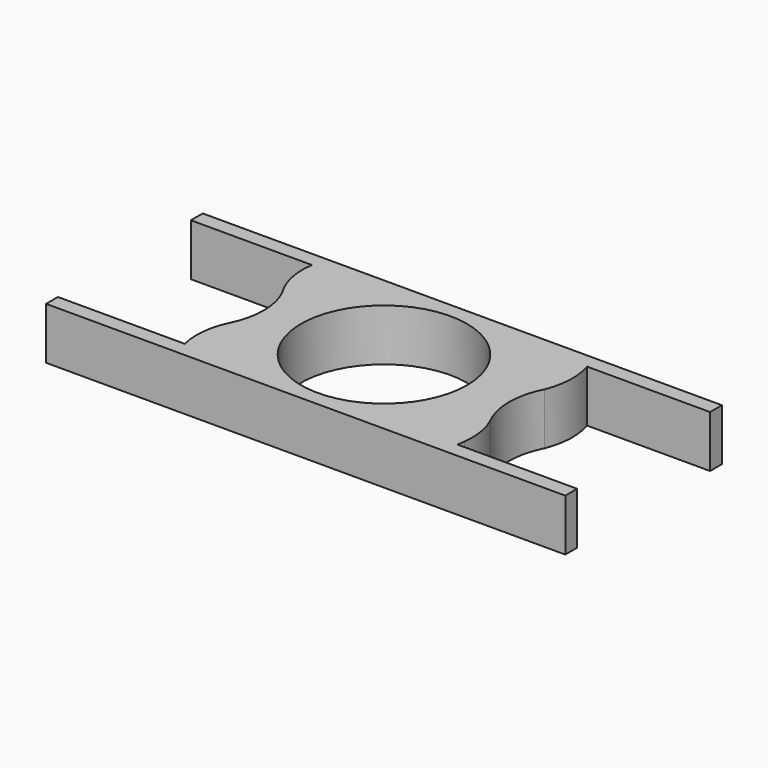
from build123d import *

# Parameters (mm, degrees)
F0_R     = 11.2
F1_DEPTH = 7


with BuildPart() as f1:
    # F0 (on Top) → F1 (new body)
    with BuildSketch(Plane.XY):
        with BuildLine():
            Line((-35, 11.2), (-18.677713, 11.2))
            ThreePointArc((-18.677713, 11.2), (-18.552338, 7.618703), (-17.172426, 4.311551))
            ThreePointArc((-17.172426, 4.311551), (-16.167142, -0.058242), (-17.172426, -4.428035))
            ThreePointArc((-17.172426, -4.428035), (-18.128874, -7.750452), (-17.896777, -11.2))
            Line((-17.896777, -11.2), (-35, -11.2))
            Line((-35, -11.2), (-35, -13.2))
            Line((-35, -13.2), (-17.172426, -13.2))
            Line((-17.172426, -13.2), (18.167, -13.2))
            Line((18.167, -13.2), (35, -13.2))
            Line((35, -13.2), (35, -11.2))
            Line((35, -11.2), (18.844175, -11.2))
            ThreePointArc((18.844175, -11.2), (18.942666, -10.702178), (19.015776, -10.2))
            ThreePointArc((19.015776, -10.2), (18.964474, -7.452013), (18.167, -4.821784))
            ThreePointArc((18.167, -4.821784), (17.047018, -0.223385), (18.167, 4.375014))
            ThreePointArc((18.167, 4.375014), (18.885409, 7.76678), (18.402515, 11.2))
            Line((18.402515, 11.2), (35, 11.2))
            Line((35, 11.2), (35, 13.2))
            Line((35, 13.2), (17.5, 13.2))
            Line((17.5, 13.2), (-18.17021, 13.2))
            Line((-18.17021, 13.2), (-35, 13.2))
            Line((-35, 13.2), (-35, 11.2))
        make_face()
        Circle(F0_R, mode=Mode.SUBTRACT)
        with BuildLine():
            Line((-35, 11.2), (-18.677713, 11.2))
            ThreePointArc((-18.677713, 11.2), (-18.552338, 7.618703), (-17.172426, 4.311551))
            ThreePointArc((-17.172426, 4.311551), (-16.167142, -0.058242), (-17.172426, -4.428035))
            ThreePointArc((-17.172426, -4.428035), (-18.128874, -7.750452), (-17.896777, -11.2))
            Line((-17.896777, -11.2), (-35, -11.2))
            Line((-35, -11.2), (-35, -13.2))
            Line((-35, -13.2), (-17.172426, -13.2))
            Line((-17.172426, -13.2), (18.167, -13.2))
            Line((18.167, -13.2), (35, -13.2))
            Line((35, -13.2), (35, -11.2))
            Line((35, -11.2), (18.844175, -11.2))
            ThreePointArc((18.844175, -11.2), (18.942666, -10.702178), (19.015776, -10.2))
            ThreePointArc((19.015776, -10.2), (18.964474, -7.452013), (18.167, -4.821784))
            ThreePointArc((18.167, -4.821784), (17.047018, -0.223385), (18.167, 4.375014))
            ThreePointArc((18.167, 4.375014), (18.885409, 7.76678), (18.402515, 11.2))
            Line((18.402515, 11.2), (35, 11.2))
            Line((35, 11.2), (35, 13.2))
            Line((35, 13.2), (17.5, 13.2))
            Line((17.5, 13.2), (-18.17021, 13.2))
            Line((-18.17021, 13.2), (-35, 13.2))
            Line((-35, 13.2), (-35, 11.2))
        make_face()
        Circle(F0_R, mode=Mode.SUBTRACT)
        with BuildLine():
            Line((-35, 11.2), (-18.677713, 11.2))
            ThreePointArc((-18.677713, 11.2), (-18.552338, 7.618703), (-17.172426, 4.311551))
            ThreePointArc((-17.172426, 4.311551), (-16.167142, -0.058242), (-17.172426, -4.428035))
            ThreePointArc((-17.172426, -4.428035), (-18.128874, -7.750452), (-17.896777, -11.2))
            Line((-17.896777, -11.2), (-35, -11.2))
            Line((-35, -11.2), (-35, -13.2))
            Line((-35, -13.2), (-17.172426, -13.2))
            Line((-17.172426, -13.2), (18.167, -13.2))
            Line((18.167, -13.2), (35, -13.2))
            Line((35, -13.2), (35, -11.2))
            Line((35, -11.2), (18.844175, -11.2))
            ThreePointArc((18.844175, -11.2), (18.942666, -10.702178), (19.015776, -10.2))
            ThreePointArc((19.015776, -10.2), (18.964474, -7.452013), (18.167, -4.821784))
            ThreePointArc((18.167, -4.821784), (17.047018, -0.223385), (18.167, 4.375014))
            ThreePointArc((18.167, 4.375014), (18.885409, 7.76678), (18.402515, 11.2))
            Line((18.402515, 11.2), (35, 11.2))
            Line((35, 11.2), (35, 13.2))
            Line((35, 13.2), (17.5, 13.2))
            Line((17.5, 13.2), (-18.17021, 13.2))
            Line((-18.17021, 13.2), (-35, 13.2))
            Line((-35, 13.2), (-35, 11.2))
        make_face()
        Circle(F0_R, mode=Mode.SUBTRACT)
        with BuildLine():
            Line((-35, 11.2), (-18.677713, 11.2))
            ThreePointArc((-18.677713, 11.2), (-18.552338, 7.618703), (-17.172426, 4.311551))
            ThreePointArc((-17.172426, 4.311551), (-16.167142, -0.058242), (-17.172426, -4.428035))
            ThreePointArc((-17.172426, -4.428035), (-18.128874, -7.750452), (-17.896777, -11.2))
            Line((-17.896777, -11.2), (-35, -11.2))
            Line((-35, -11.2), (-35, -13.2))
            Line((-35, -13.2), (-17.172426, -13.2))
            Line((-17.172426, -13.2), (18.167, -13.2))
            Line((18.167, -13.2), (35, -13.2))
            Line((35, -13.2), (35, -11.2))
            Line((35, -11.2), (18.844175, -11.2))
            ThreePointArc((18.844175, -11.2), (18.942666, -10.702178), (19.015776, -10.2))
            ThreePointArc((19.015776, -10.2), (18.964474, -7.452013), (18.167, -4.821784))
            ThreePointArc((18.167, -4.821784), (17.047018, -0.223385), (18.167, 4.375014))
            ThreePointArc((18.167, 4.375014), (18.885409, 7.76678), (18.402515, 11.2))
            Line((18.402515, 11.2), (35, 11.2))
            Line((35, 11.2), (35, 13.2))
            Line((35, 13.2), (17.5, 13.2))
            Line((17.5, 13.2), (-18.17021, 13.2))
            Line((-18.17021, 13.2), (-35, 13.2))
            Line((-35, 13.2), (-35, 11.2))
        make_face()
        Circle(F0_R, mode=Mode.SUBTRACT)
        with BuildLine():
            Line((-35, 11.2), (-18.677713, 11.2))
            ThreePointArc((-18.677713, 11.2), (-18.552338, 7.618703), (-17.172426, 4.311551))
            ThreePointArc((-17.172426, 4.311551), (-16.167142, -0.058242), (-17.172426, -4.428035))
            ThreePointArc((-17.172426, -4.428035), (-18.128874, -7.750452), (-17.896777, -11.2))
            Line((-17.896777, -11.2), (-35, -11.2))
            Line((-35, -11.2), (-35, -13.2))
            Line((-35, -13.2), (-17.172426, -13.2))
            Line((-17.172426, -13.2), (18.167, -13.2))
            Line((18.167, -13.2), (35, -13.2))
            Line((35, -13.2), (35, -11.2))
            Line((35, -11.2), (18.844175, -11.2))
            ThreePointArc((18.844175, -11.2), (18.942666, -10.702178), (19.015776, -10.2))
            ThreePointArc((19.015776, -10.2), (18.964474, -7.452013), (18.167, -4.821784))
            ThreePointArc((18.167, -4.821784), (17.047018, -0.223385), (18.167, 4.375014))
            ThreePointArc((18.167, 4.375014), (18.885409, 7.76678), (18.402515, 11.2))
            Line((18.402515, 11.2), (35, 11.2))
            Line((35, 11.2), (35, 13.2))
            Line((35, 13.2), (17.5, 13.2))
            Line((17.5, 13.2), (-18.17021, 13.2))
            Line((-18.17021, 13.2), (-35, 13.2))
            Line((-35, 13.2), (-35, 11.2))
        make_face()
        Circle(F0_R, mode=Mode.SUBTRACT)
    extrude(amount=F1_DEPTH)


solid = f1.part
